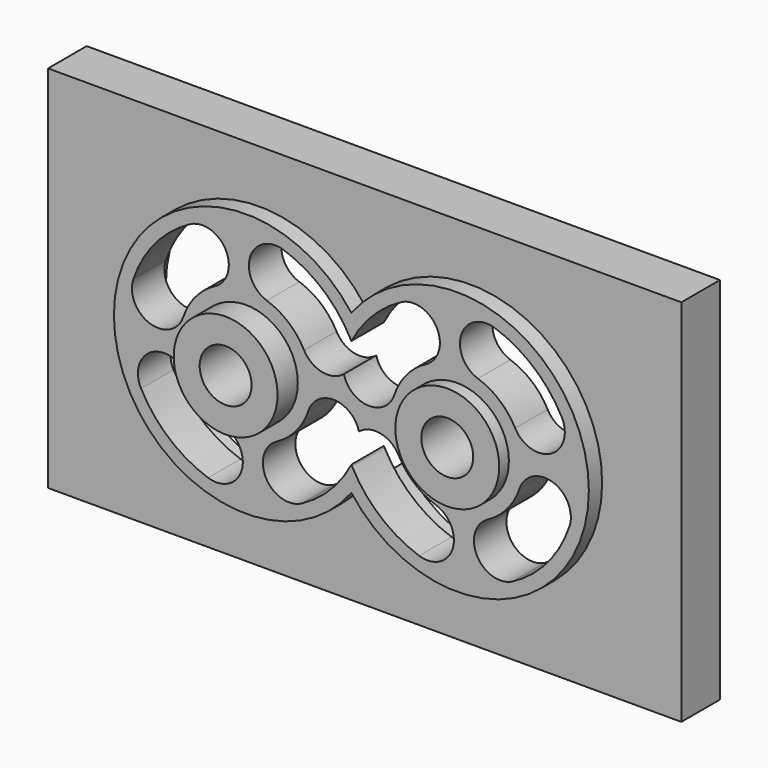
from build123d import *

# Parameters (mm, degrees)
F2_W          = 304.8
F2_H          = 177.8
F3_DEPTH      = 23.241
F0_R          = 25
F0_R_2        = 12.4968
F4_DEPTH      = 12.1666
F5_DEPTH      = 19.5326
F6_W          = 127
F6_H          = 25.4
F7_DEPTH      = 127
F7_DEPTH_BACK = 127
F9_DEPTH      = 31.243


with BuildPart() as f3:
    # F2 (on offset) → F3 (new body)
    with BuildSketch(Plane.XZ.offset(-31.242)):
        Rectangle(F2_W, F2_H)
        with BuildLine():
            ThreePointArc((0, -38.1), (-114.3, 0), (0, 38.1))
            ThreePointArc((0, 38.1), (70.8804631421, 60.2413894262), (114.3, 0))
            ThreePointArc((114.3, 0), (70.8804631421, -60.2413894262), (0, -38.1))
        make_face(mode=Mode.SUBTRACT)
    extrude(amount=F3_DEPTH)



with BuildPart() as f4:
    # F0 (on Front) → F4 (new body)
    with BuildSketch(Plane.XZ):
        with Locations((-50.8, 0)):
            Circle(F0_R)
        with Locations((-50.8, 0)):
            Circle(F0_R_2, mode=Mode.SUBTRACT)
    extrude(amount=F4_DEPTH)


with BuildPart() as f4b:
    # F0 (on Front) → F4, piece 2 (new body)
    with BuildSketch(Plane.XZ):
        with Locations((50.8, 0)):
            Circle(F0_R)
        with Locations((50.8, 0)):
            Circle(F0_R_2, mode=Mode.SUBTRACT)
    extrude(amount=F4_DEPTH)


with BuildPart() as f3_1:
    add(f3.part)

    add(f4.part)  # F5 merges F4

    add(f4b.part)  # F5 merges F4b
    # F0 (on Front) → F5 (join)
    with BuildSketch(Plane.XZ):
        with BuildLine():
            ThreePointArc((0, -38.1), (-12.7, 0), (0, 38.1))
            ThreePointArc((0, 38.1), (-114.3, 0), (0, -38.1))
        make_face()
        with Locations((-50.8, 0)):
            Circle(F0_R, mode=Mode.SUBTRACT)
        with Locations((-50.8, 0)):
            Circle(F0_R)
        with Locations((-50.8, 0)):
            Circle(F0_R_2, mode=Mode.SUBTRACT)
        with BuildLine():
            ThreePointArc((0, 38.1), (9.4413894262, 20.0804631421), (12.7, 0))
            ThreePointArc((12.7, 0), (9.4413894262, -20.0804631421), (0, -38.1))
            ThreePointArc((0, -38.1), (70.8804631421, -60.2413894262), (114.3, 0))
            ThreePointArc((114.3, 0), (70.8804631421, 60.2413894262), (0, 38.1))
        make_face()
        with Locations((50.8, 0)):
            Circle(F0_R, mode=Mode.SUBTRACT)
        with Locations((50.8, 0)):
            Circle(F0_R)
        with Locations((50.8, 0)):
            Circle(F0_R_2, mode=Mode.SUBTRACT)
        with BuildLine():
            ThreePointArc((0, -38.1), (9.4413894262, -20.0804631421), (12.7, 0))
            ThreePointArc((12.7, 0), (9.4413894262, 20.0804631421), (0, 38.1))
            ThreePointArc((0, 38.1), (-12.7, 0), (0, -38.1))
        make_face()
    extrude(amount=-F5_DEPTH)

    # F6 (on Top) → F7 (cut, two sides)
    with BuildSketch(Plane.XY) as f7_sk:
        with Locations((63.5, -18.5166)):
            Rectangle(F6_W, F6_H)
    extrude(amount=-F7_DEPTH, mode=Mode.SUBTRACT)
    extrude(f7_sk.sketch, amount=F7_DEPTH_BACK, mode=Mode.SUBTRACT)

    # F8 (on Front) → F9 (cut, through all)
    with BuildSketch(Plane.XZ):
        with BuildLine():
            ThreePointArc((-65.7271030045, 28.0222071917), (-60.4890613296, 45.2019312701), (-77.6687854081, 50.439972945))
            ThreePointArc((-77.6687854081, 50.439972945), (-94.411945371, 36.9340049406), (-104.9761603541, 18.1952232547))
            ThreePointArc((-104.9761603541, 18.1952232547), (-96.9803965542, 2.1126935639), (-80.8978668634, 10.1084573637))
            ThreePointArc((-80.8978668634, 10.1084573637), (-75.0288585395, 20.5188916337), (-65.7271030045, 28.0222071917))
        make_face()
        with BuildLine():
            ThreePointArc((-78.8222071917, -14.9271030045), (-96.0019312701, -9.6890613296), (-101.239972945, -26.8687854081))
            ThreePointArc((-101.239972945, -26.8687854081), (-87.7340049406, -43.611945371), (-68.9952232547, -54.1761603541))
            ThreePointArc((-68.9952232547, -54.1761603541), (-52.9126935639, -46.1803965542), (-60.9084573637, -30.0978668634))
            ThreePointArc((-60.9084573637, -30.0978668634), (-71.3188916337, -24.2288585395), (-78.8222071917, -14.9271030045))
        make_face()
        with BuildLine():
            ThreePointArc((-35.8728969955, -28.0222071917), (-41.1109386704, -45.2019312701), (-23.9312145919, -50.439972945))
            ThreePointArc((-23.9312145919, -50.439972945), (-10.107305041, -40.127634829), (0.010733032, -26.1608850911))
            ThreePointArc((0.010733032, -26.1608850911), (0.1798786546, -26.5175497593), (0.360027055, -26.8687854081))
            ThreePointArc((0.360027055, -26.8687854081), (13.8659950594, -43.611945371), (32.6047767453, -54.1761603541))
            ThreePointArc((32.6047767453, -54.1761603541), (48.6873064361, -46.1803965542), (40.6915426363, -30.0978668634))
            ThreePointArc((40.6915426363, -30.0978668634), (30.2811083663, -24.2288585395), (22.7777928083, -14.9271030045))
            ThreePointArc((22.7777928083, -14.9271030045), (14.1328150363, -8.4594398503), (3.6348708656, -10.9812399102))
            ThreePointArc((3.6348708656, -10.9812399102), (-8.2078269406, -1.4599992342), (-20.7021331366, -10.1084573637))
            ThreePointArc((-20.7021331366, -10.1084573637), (-26.5711414605, -20.5188916337), (-35.8728969955, -28.0222071917))
        make_face()
        with BuildLine():
            ThreePointArc((-0.010733032, 26.1608850911), (-0.1798786546, 26.5175497593), (-0.360027055, 26.8687854081))
            ThreePointArc((-0.360027055, 26.8687854081), (-13.8659950594, 43.611945371), (-32.6047767453, 54.1761603541))
            ThreePointArc((-32.6047767453, 54.1761603541), (-48.6873064361, 46.1803965542), (-40.6915426363, 30.0978668634))
            ThreePointArc((-40.6915426363, 30.0978668634), (-30.2811083663, 24.2288585395), (-22.7777928083, 14.9271030045))
            ThreePointArc((-22.7777928083, 14.9271030045), (-14.1328150363, 8.4594398503), (-3.6348708656, 10.9812399102))
            ThreePointArc((-3.6348708656, 10.9812399102), (8.2078269406, 1.4599992342), (20.7021331366, 10.1084573637))
            ThreePointArc((20.7021331366, 10.1084573637), (26.5711414605, 20.5188916337), (35.8728969955, 28.0222071917))
            ThreePointArc((35.8728969955, 28.0222071917), (41.1109386704, 45.2019312701), (23.9312145919, 50.439972945))
            ThreePointArc((23.9312145919, 50.439972945), (10.107305041, 40.127634829), (-0.010733032, 26.1608850911))
        make_face()
        with BuildLine():
            ThreePointArc((101.239972945, 26.8687854081), (87.7340049406, 43.611945371), (68.9952232547, 54.1761603541))
            ThreePointArc((68.9952232547, 54.1761603541), (52.9126935639, 46.1803965542), (60.9084573637, 30.0978668634))
            ThreePointArc((60.9084573637, 30.0978668634), (71.3188916337, 24.2288585395), (78.8222071917, 14.9271030045))
            ThreePointArc((78.8222071917, 14.9271030045), (96.0019312701, 9.6890613296), (101.239972945, 26.8687854081))
        make_face()
        with BuildLine():
            ThreePointArc((77.6687854081, -50.439972945), (94.411945371, -36.9340049406), (104.9761603541, -18.1952232547))
            ThreePointArc((104.9761603541, -18.1952232547), (96.9803965542, -2.1126935639), (80.8978668634, -10.1084573637))
            ThreePointArc((80.8978668634, -10.1084573637), (75.0288585395, -20.5188916337), (65.7271030045, -28.0222071917))
            ThreePointArc((65.7271030045, -28.0222071917), (60.4890613296, -45.2019312701), (77.6687854081, -50.439972945))
        make_face()
    extrude(amount=-F9_DEPTH, mode=Mode.SUBTRACT)


solid = f3_1.part
